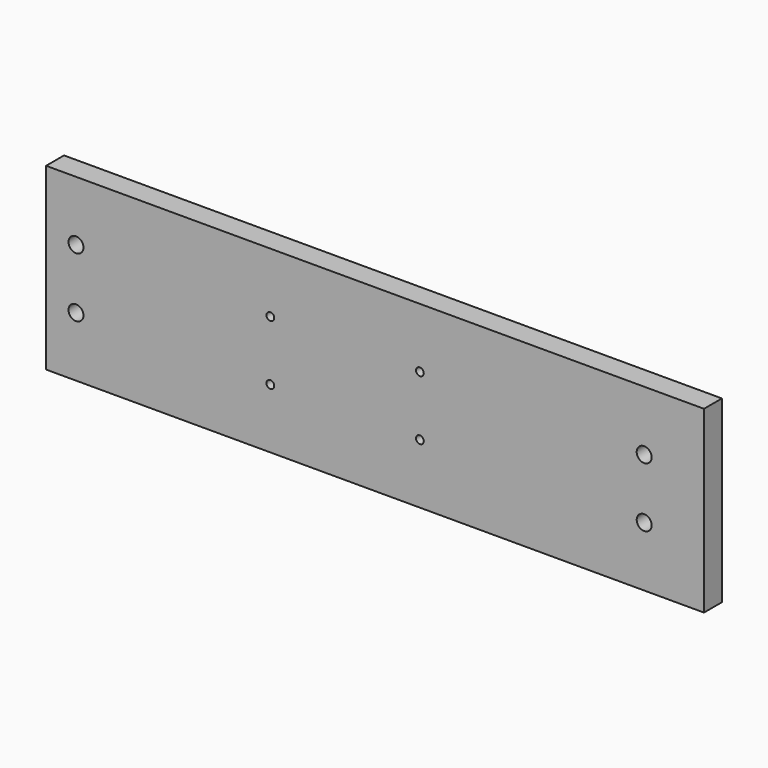
from build123d import *

# Parameters (mm, degrees)
F0_W     = 279.4
F0_H     = 76.2
F1_DEPTH = 9.525
F2_R     = 3.175
F2_R_2   = 1.651
F3_DEPTH = 9.525


with BuildPart() as f1:
    # F0 (on Front) → F1 (new body)
    with BuildSketch(Plane.XZ):
        with Locations((48.545998, 0)):
            Rectangle(F0_W, F0_H)
    extrude(amount=F1_DEPTH)

    # F2 (on face) → F3 (cut, through all)
    with BuildSketch(Plane.XZ.offset(9.525)):
        with Locations((-78.454002, -12.7)):
            Circle(F2_R)
        with Locations((-78.454002, 12.7)):
            Circle(F2_R)
        with Locations((4.095998, 12.7)):
            Circle(F2_R_2)
        with Locations((4.095998, -12.7)):
            Circle(F2_R_2)
        with Locations((67.595998, 12.7)):
            Circle(F2_R_2)
        with Locations((67.595998, -12.7)):
            Circle(F2_R_2)
        with Locations((162.845998, 12.7)):
            Circle(F2_R)
        with Locations((162.845998, -12.7)):
            Circle(F2_R)
    extrude(amount=-F3_DEPTH, mode=Mode.SUBTRACT)


solid = f1.part
